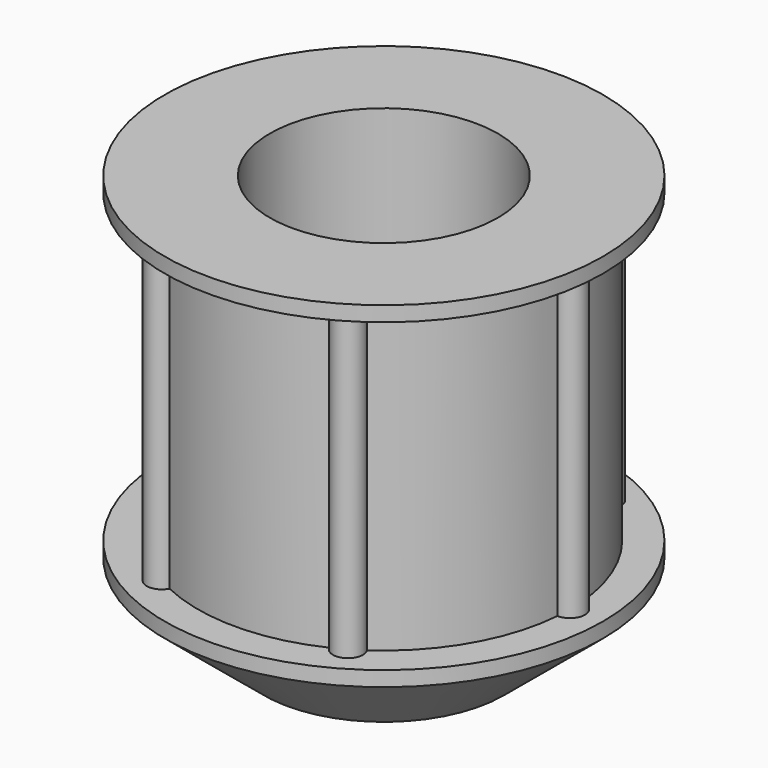
from build123d import *

# Parameters (mm, degrees)
PAD_DEPTH          = 56
POLARPATTERN_COUNT = 6


with BuildPart() as part:
    # Sketch → Revolution002 (revolve)
    with BuildSketch(Plane.XZ):
        Polygon((19, 5.8085106383), (19, 75.5), (36.5, 75.5), (36.5, 73), (31, 73), (31, 22), (36.5, 22), (36.5, 19.5), (20, 5.8085106383), align=None)
    revolve(axis=Axis((0, 0, 0), (0, 0, 1)))

    # Sketch004 → Pad (new body)
    with BuildSketch(Plane.XY.offset(75.5)):
        with BuildLine():
            ThreePointArc((30.8991935484, -2.4979667851), (31, 0), (30.8991935484, 2.4979667851))
            ThreePointArc((30.8991935484, -2.4979667851), (33.5, 0), (30.8991935484, 2.4979667851))
        make_face()
    pad = extrude(amount=-PAD_DEPTH)

    # PolarPattern: Pad ×6 about axis
    polarpattern_axis = Axis((0, 0, 75.5), (0, 0, 1))
    for i in range(1, POLARPATTERN_COUNT):
        add(pad.rotate(polarpattern_axis, i * 360 / POLARPATTERN_COUNT))


solid = part.part
